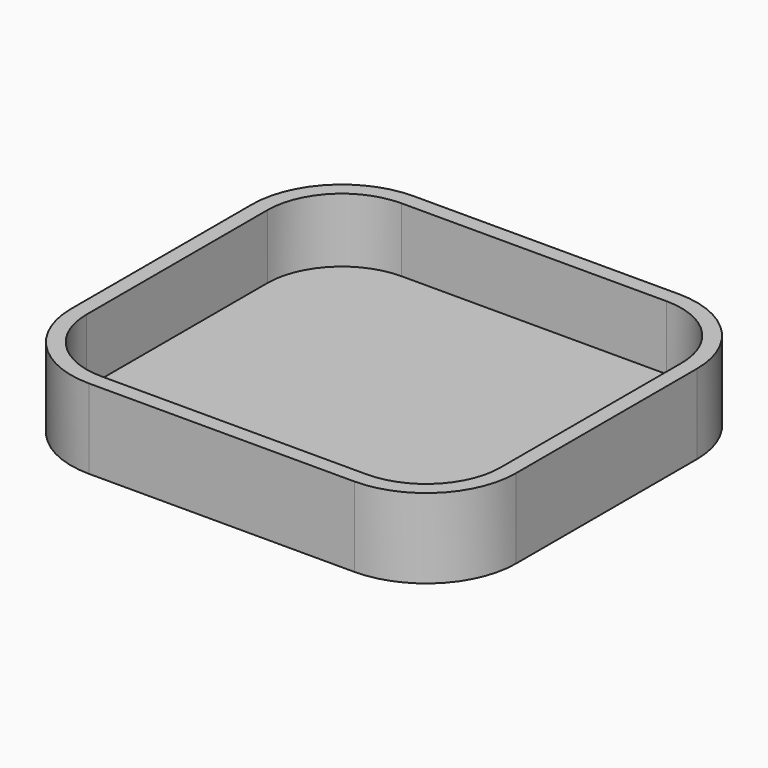
from build123d import *

# Parameters (mm, degrees)
F1_DEPTH = 6.2
F2_DEPTH = 1.2


with BuildPart() as f1:
    # F0 (on Top) → F1 (new body)
    with BuildSketch(Plane.XY):
        with BuildLine():
            Line((-10.325, -15.8), (10.325, -15.8))
            ThreePointArc((10.325, -15.8), (15.274747, -13.749747), (17.325, -8.8))
            Line((17.325, -8.8), (17.325, 8.8))
            ThreePointArc((17.325, 8.8), (15.274747, 13.749747), (10.325, 15.8))
            Line((10.325, 15.8), (-10.325, 15.8))
            ThreePointArc((-10.325, 15.8), (-15.274747, 13.749747), (-17.325, 8.8))
            Line((-17.325, 8.8), (-17.325, -8.8))
            ThreePointArc((-17.325, -8.8), (-15.274747, -13.749747), (-10.325, -15.8))
        make_face()
        with BuildLine():
            Line((16.125, 8.8), (16.125, -8.8))
            ThreePointArc((16.125, -8.8), (14.426219, -12.901219), (10.325, -14.6))
            Line((10.325, -14.6), (-10.325, -14.6))
            ThreePointArc((-10.325, -14.6), (-14.426219, -12.901219), (-16.125, -8.8))
            Line((-16.125, -8.8), (-16.125, 8.8))
            ThreePointArc((-16.125, 8.8), (-14.426219, 12.901219), (-10.325, 14.6))
            Line((-10.325, 14.6), (10.325, 14.6))
            ThreePointArc((10.325, 14.6), (14.426219, 12.901219), (16.125, 8.8))
        make_face(mode=Mode.SUBTRACT)
    extrude(amount=F1_DEPTH)

    # F0 (on Top) → F2 (join)
    with BuildSketch(Plane.XY):
        with BuildLine():
            ThreePointArc((10.325, -14.6), (14.426219, -12.901219), (16.125, -8.8))
            Line((16.125, -8.8), (16.125, 8.8))
            ThreePointArc((16.125, 8.8), (14.426219, 12.901219), (10.325, 14.6))
            Line((10.325, 14.6), (-10.325, 14.6))
            ThreePointArc((-10.325, 14.6), (-14.426219, 12.901219), (-16.125, 8.8))
            Line((-16.125, 8.8), (-16.125, -8.8))
            ThreePointArc((-16.125, -8.8), (-14.426219, -12.901219), (-10.325, -14.6))
            Line((-10.325, -14.6), (10.325, -14.6))
        make_face()
    extrude(amount=F2_DEPTH)


solid = f1.part
